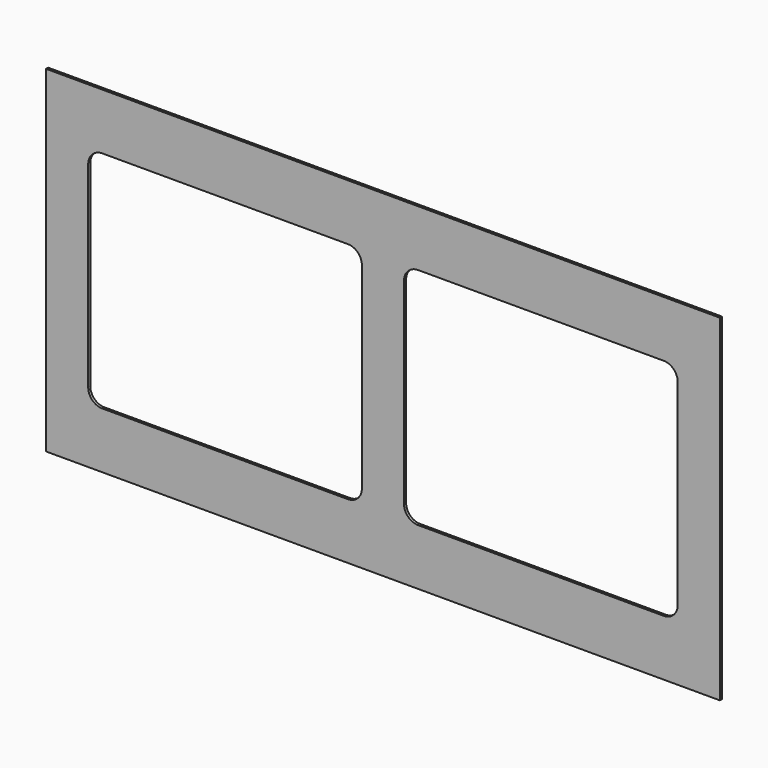
from build123d import *

# Parameters (mm, degrees)
F0_W     = 2438.4
F0_H     = 1219.2
F1_DEPTH = 9.525


with BuildPart() as f1:
    # F0 (on Front) → F1 (new body)
    with BuildSketch(Plane.XZ):
        with Locations((-125.136256, -322.453631)):
            Rectangle(F0_W, F0_H)
        with BuildLine():
            ThreePointArc((-1191.936256, 33.146369), (-1177.05728, 69.067393), (-1141.136256, 83.946369))
            Line((-1141.136256, 83.946369), (-252.136256, 83.946369))
            ThreePointArc((-252.136256, 83.946369), (-216.215231, 69.067393), (-201.336256, 33.146369))
            Line((-201.336256, 33.146369), (-201.336256, -678.053631))
            ThreePointArc((-201.336256, -678.053631), (-216.215231, -713.974656), (-252.136256, -728.853631))
            Line((-252.136256, -728.853631), (-1141.136256, -728.853631))
            ThreePointArc((-1141.136256, -728.853631), (-1177.05728, -713.974656), (-1191.936256, -678.053631))
            Line((-1191.936256, -678.053631), (-1191.936256, 33.146369))
        make_face(mode=Mode.SUBTRACT)
        with BuildLine():
            ThreePointArc((-48.936256, 33.146369), (-34.05728, 69.067393), (1.863744, 83.946369))
            Line((1.863744, 83.946369), (890.863744, 83.946369))
            ThreePointArc((890.863744, 83.946369), (926.784769, 69.067393), (941.663744, 33.146369))
            Line((941.663744, 33.146369), (941.663744, -678.053631))
            ThreePointArc((941.663744, -678.053631), (926.784769, -713.974656), (890.863744, -728.853631))
            Line((890.863744, -728.853631), (1.863744, -728.853631))
            ThreePointArc((1.863744, -728.853631), (-34.05728, -713.974656), (-48.936256, -678.053631))
            Line((-48.936256, -678.053631), (-48.936256, 33.146369))
        make_face(mode=Mode.SUBTRACT)
    extrude(amount=F1_DEPTH)


solid = f1.part
